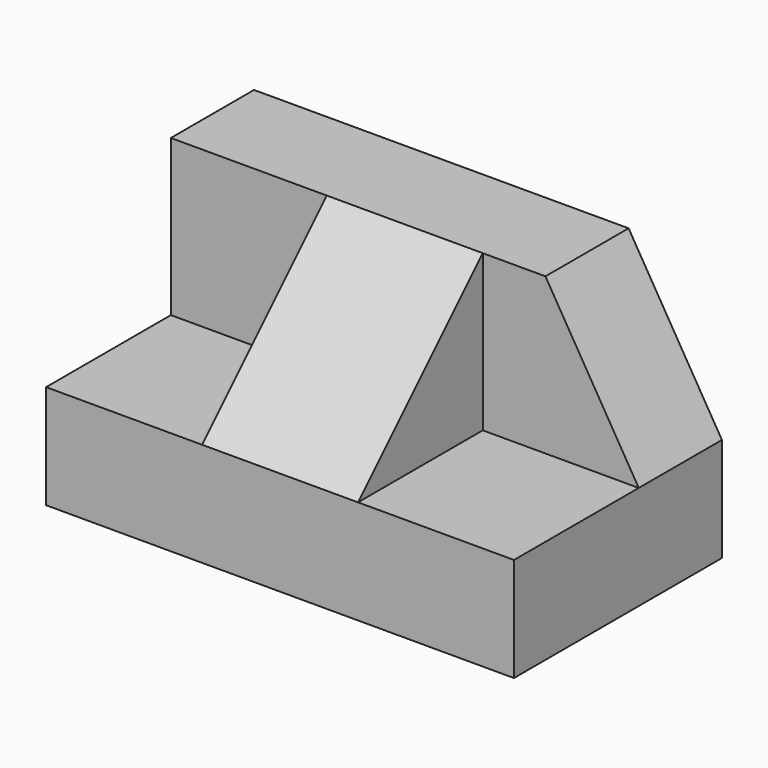
from build123d import *

# Parameters (mm, degrees)
F0_W     = 31.75
F0_H     = 31.75
F1_DEPTH = 57.15
F2_W     = 19.05
F2_H     = 19.05
F3_DEPTH = 19.05
F4_W     = 19.05
F4_H     = 19.05
F5_DEPTH = 19.05
F7_DEPTH = 25.4
F9_DEPTH = 25.4


with BuildPart() as f1:
    # F0 (on Right) → F1 (new body)
    with BuildSketch(Plane.YZ):
        with Locations((-15.875, 15.875)):
            Rectangle(F0_W, F0_H)
    extrude(amount=F1_DEPTH)

    # F2 (on face) → F3 (cut)
    with BuildSketch(Plane(origin=(0, 0, 0), x_dir=(0, -1, 0), z_dir=(-1, 0, 0))):
        with Locations((22.225, 22.225)):
            Rectangle(F2_W, F2_H)
    extrude(amount=-F3_DEPTH, mode=Mode.SUBTRACT)

    # F4 (on face) → F5 (cut)
    with BuildSketch(Plane.YZ.offset(57.15)):
        with Locations((-22.225, 22.225)):
            Rectangle(F4_W, F4_H)
    extrude(amount=-F5_DEPTH, mode=Mode.SUBTRACT)

    # F6 (on face) → F7 (cut)
    with BuildSketch(Plane.XZ.offset(12.7)):
        Polygon((45.753013, 31.75), (57.15, 12.7), (57.15, 31.75), align=None)
    extrude(amount=-F7_DEPTH, mode=Mode.SUBTRACT)

    # F8 (on face) → F9 (cut)
    with BuildSketch(Plane(origin=(19.05, 0, 0), x_dir=(0, -1, 0), z_dir=(-1, 0, 0))):
        Polygon((12.7, 31.75), (31.75, 12.7), (31.75, 31.75), align=None)
    extrude(amount=-F9_DEPTH, mode=Mode.SUBTRACT)


solid = f1.part
